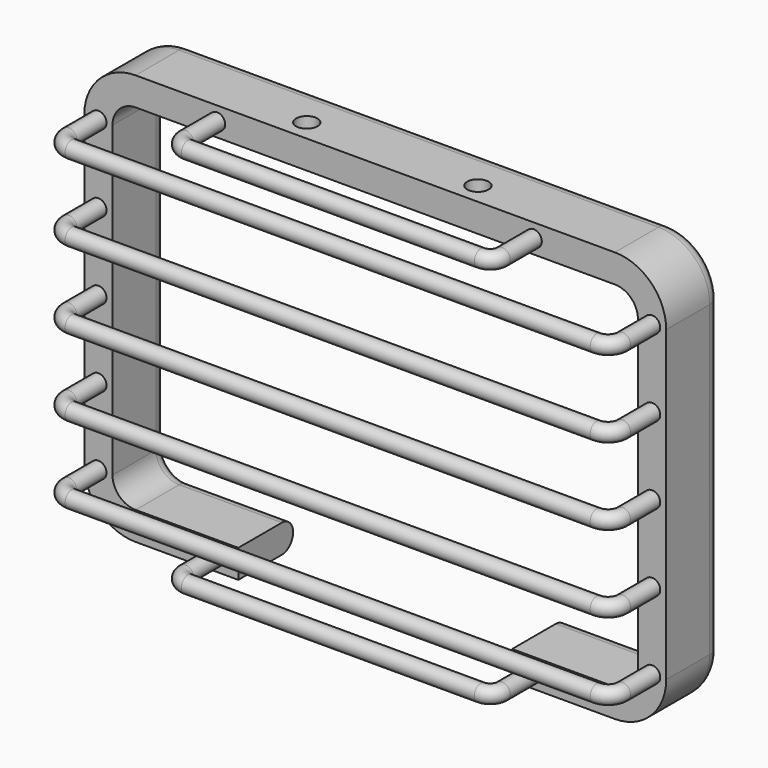
from build123d import *

# Parameters (mm, degrees)
PAD_DEPTH              = 16
THICKNESS_T            = -6.6
FILLET_R               = 3.29
SKETCH001_R            = 2.5
POCKET_DEPTH           = 10
SKETCH003_R            = 1.9
LINEARPATTERN_COUNT    = 3
LINEARPATTERN_PITCH    = 18
LINEARPATTERN001_COUNT = 3
LINEARPATTERN001_PITCH = 18
SKETCH004_W            = 64
SKETCH004_H            = 12.1039636
POCKET001_DEPTH        = 17
SKETCH006_R            = 1.9


with BuildPart() as part:
    # Sketch → Pad (new body)
    with BuildSketch(Plane.XZ):
        with BuildLine():
            ThreePointArc((-56, 48), (-64.4852813742, 44.4852813742), (-68, 36))
            Line((-68, -36), (-68, 36))
            ThreePointArc((-68, -36), (-64.4852813742, -44.4852813742), (-56, -48))
            Line((56, -48), (-56, -48))
            ThreePointArc((56, -48), (64.4852813742, -44.4852813742), (68, -36))
            Line((68, 36), (68, -36))
            ThreePointArc((68, 36), (64.4852813742, 44.4852813742), (56, 48))
            Line((-56, 48), (56, 48))
        make_face()
    extrude(amount=PAD_DEPTH)

    # Thickness
    thickness_openings = [part.faces().sort_by_distance(p)[0] for p in [
        (0, -16, 0),
        (0, 0, 0),
    ]]
    offset(amount=THICKNESS_T, openings=thickness_openings)

    # Fillet
    fillet_edges = [part.edges().sort_by_distance(p)[0] for p in [
        (0, 0, -41.4),
        (-59.818377, 0, -39.818377),
        (0, 0, -48),
        (-64.485281, 0, -44.485281),
    ]]
    fillet(fillet_edges, radius=FILLET_R)

    # Sketch001 (on Face2 of Fillet) → Pocket (cut)
    with BuildSketch(Plane.XY.offset(48)):
        with Locations((-20, -11)):
            Circle(SKETCH001_R)
        with Locations((20, -11)):
            Circle(SKETCH001_R)
    extrude(amount=-POCKET_DEPTH, mode=Mode.SUBTRACT)

    # AdditivePipe: sweep along a path in Sketch002
    with BuildLine(Plane.XY) as additivepipe_path:
        Line((64.7, -16), (64.7, -24.6550980597))
        ThreePointArc((64.7, -24.6550980597), (63.7203009041, -27.0203009041), (61.3550980597, -28))
        Line((61.3550980597, -28), (-61.3550980597, -28))
        ThreePointArc((-61.3550980597, -28), (-63.7203009041, -27.0203009041), (-64.7, -24.6550980597))
        Line((-64.7, -24.6550980597), (-64.7, -16))
    # Sketch003 (on Face4 of Pocket) → AdditivePipe (sweep)
    with BuildSketch(Plane.XZ.offset(16)):
        with Locations((64.7, 0)):
            Circle(SKETCH003_R)
    additivepipe = sweep(path=additivepipe_path.line)

    # LinearPattern: AdditivePipe ×3
    with Locations(*[(0, 0, -i * LINEARPATTERN_PITCH) for i in range(1, LINEARPATTERN_COUNT)]):
        add(additivepipe)

    # LinearPattern001: AdditivePipe ×3
    with Locations(*[(0, 0, i * LINEARPATTERN001_PITCH) for i in range(1, LINEARPATTERN001_COUNT)]):
        add(additivepipe)

    # Sketch004 (on Face4 of LinearPattern001) → Pocket001 (cut)
    with BuildSketch(Plane.XZ.offset(16)):
        with Locations((0, -45.503853)):
            Rectangle(SKETCH004_W, SKETCH004_H)
    extrude(amount=-POCKET001_DEPTH, mode=Mode.SUBTRACT)

    # AdditivePipe001: sweep along a path in Sketch005
    with BuildLine(Plane.XY.offset(44.7)) as additivepipe001_path:
        Line((37.0344500791, -15.999653134), (37.0344500791, -25.2405705423))
        ThreePointArc((37.0344500791, -25.2405705423), (36.2258629084, -27.1920071616), (34.274036565, -27.999653134))
        Line((34.274036565, -27.999653134), (-34.2077976098, -27.9666269283))
        ThreePointArc((-34.2077976098, -27.9666269283), (-36.1579036276, -27.1580400786), (-36.9655499209, -25.2075443366))
        Line((-36.9655499209, -25.2075443366), (-36.9655499209, -16))
    # Sketch006 (on Face4 of Pocket001) → AdditivePipe001 (sweep)
    with BuildSketch(Plane.XZ.offset(16)):
        with Locations((-36.9655499209, 44.7)):
            Circle(SKETCH006_R)
    additivepipe001 = sweep(path=additivepipe001_path.line)

    # Mirrored: AdditivePipe001 across XY
    add(additivepipe001.mirror(Plane.XY))


solid = part.part
